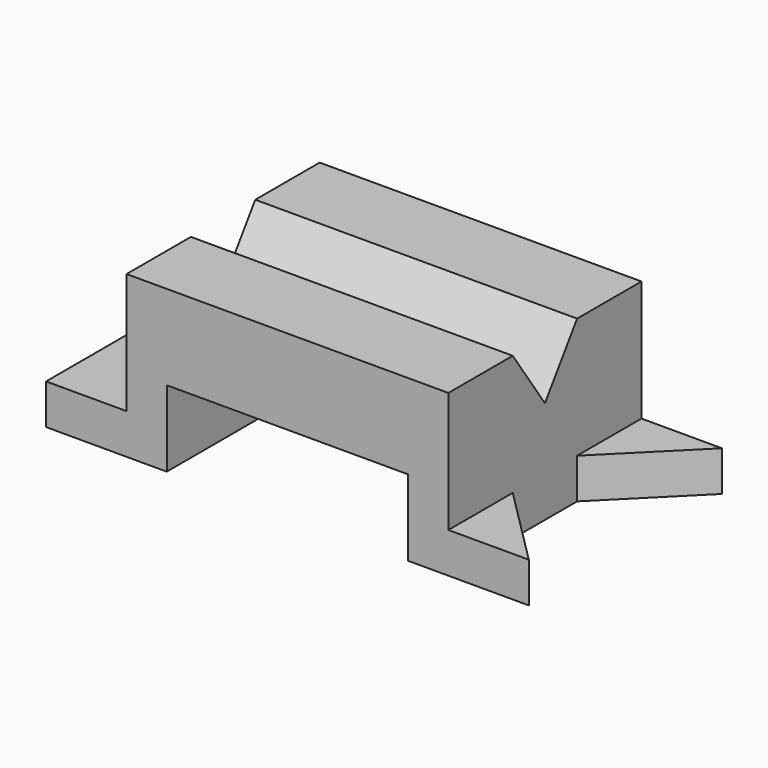
from build123d import *

# Parameters (mm, degrees)
F0_W     = 25.4
F0_H     = 76.2
F1_DEPTH = 12.7
F2_DEPTH = 50.8
F3_DEPTH = 12.7
F5_DEPTH = 127.001
F6_W     = 76.2
F6_H     = 24.031783
F7_DEPTH = 76.201


with BuildPart() as f1:
    # F0 (on Top) → F1 (new body)
    with BuildSketch(Plane.XY):
        with Locations((-68.876286, -10.856101)):
            Rectangle(F0_W, F0_H)
    extrude(amount=F1_DEPTH)

    # F0 (on Top) → F2 (join)
    with BuildSketch(Plane.XY):
        Polygon((45.423714, 27.243899), (-56.176286, 27.243899), (-56.176286, -48.956101), (45.423714, -48.956101), (45.423714, -23.556101), (45.423714, 1.843899), align=None)
    extrude(amount=F2_DEPTH)

    # F0 (on Top) → F3 (join)
    with BuildSketch(Plane.XY):
        Polygon((70.823714, 27.243899), (45.423714, 27.243899), (45.423714, 1.843899), align=None)
        Polygon((45.423714, -23.556101), (45.423714, -48.956101), (70.823714, -48.956101), align=None)
    extrude(amount=F3_DEPTH)

    # F4 (on face) → F5 (cut, through all)
    with BuildSketch(Plane.YZ.offset(45.423714)):
        Polygon((-10.849641, 32.451563), (1.843899, 50.8), (-23.556101, 50.8), align=None)
    extrude(amount=-F5_DEPTH, mode=Mode.SUBTRACT)

    # F6 (on face) → F7 (cut, through all)
    with BuildSketch(Plane.XZ.offset(48.956101)):
        with Locations((-5.376286, 12.015891)):
            Rectangle(F6_W, F6_H)
    extrude(amount=-F7_DEPTH, mode=Mode.SUBTRACT)


solid = f1.part
